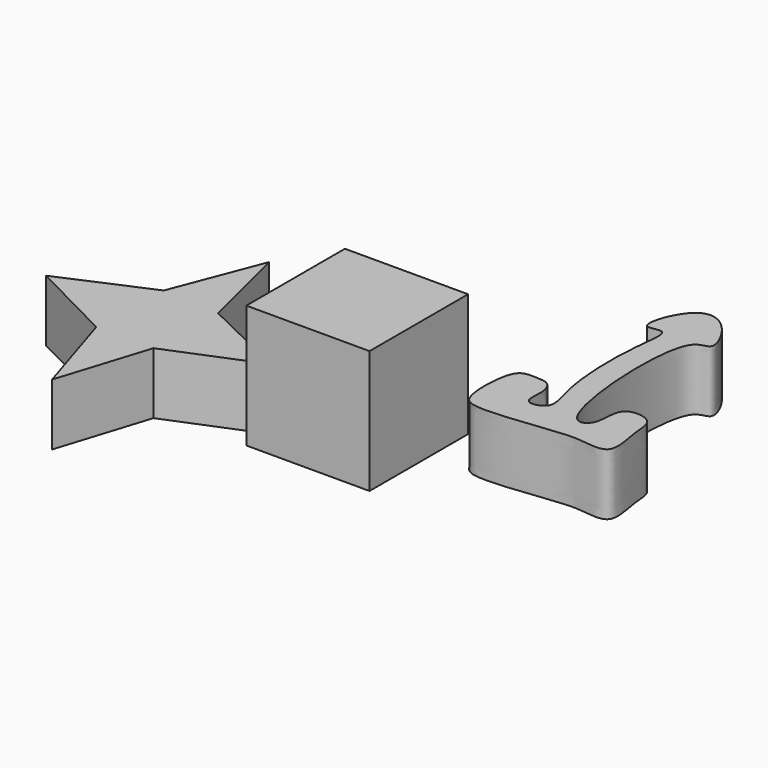
from build123d import *

# Parameters (mm, degrees)
F0_W     = 50
F0_H     = 50
F1_DEPTH = 50
F3_DEPTH = 25
F5_DEPTH = 25


with BuildPart() as f1:
    # F0 (on Top) → F1 (new body)
    with BuildSketch(Plane.XY):
        Rectangle(F0_W, F0_H)
    extrude(amount=F1_DEPTH)


with BuildPart() as f3:
    # F2 (on Top) → F3 (new body)
    with BuildSketch(Plane.XY):
        with BuildLine():
            add(Edge.make_bspline(
                [(62.2854828835, 18.4092987329), (64.2676770664, 20.8252723707), (58.9851490385, 32.2660144268), (57.7487069824, 64.2192451313), (61.9719423526, 84.1065452735), (48.8400756216, 77.04710804), (57.1473864153, 101.476112772), (71.8658035272, 98.8424958809), (81.1055202571, 79.980822739), (64.6975670299, 84.997067788), (69.1993792273, 11.0924260312), (83.53956362, 18.2237201979), (80.2668317064, 33.0994660278), (95.8116933452, 31.8830853941), (94.9162691372, 21.3898294531), (99.8857851878, 4.3791402325), (85.5266029612, 6.6853193807), (77.548395646, 6.9163912191), (44.4318555609, 1.9084673348), (38.4614065355, 7.5723181931), (37.9978360383, 21.3318767233), (40.412023005, 31.819345953), (47.5638230576, 31.2994573806), (52.9766215622, 31.3187387295), (56.1438009209, 25.426041261), (53.6037253652, 15.0168628929), (60.8720999823, 16.6866139128), (62.2854828835, 18.4092987329)],
                knots=[0, 0, 0, 0, 0.0406743062, 0.1092731393, 0.1526423243, 0.1802780766, 0.2276970183, 0.2675790244, 0.3119701777, 0.3419154538, 0.4320320179, 0.4600282553, 0.4996209253, 0.5347453573, 0.5705661296, 0.6132529651, 0.648456594, 0.6852155671, 0.7498798257, 0.7795660993, 0.8215945201, 0.8568766133, 0.8846742474, 0.9103031916, 0.9383786291, 0.9709976099, 1, 1, 1, 1], degree=3))
        make_face()
    extrude(amount=F3_DEPTH)


with BuildPart() as f5:
    # F4 (on Top) → F5 (new body)
    with BuildSketch(Plane.XY):
        Polygon((-117.4122616649, -11.1114243045), (-82.9636492371, -28.7022031901), (-71.389149928, -65.6095929501), (-59.7413856226, -28.7250164081), (-23.9470246449, -14.0653396656), align=None)
        Polygon((-81.9216143463, 4.2689642766), (-117.4122616649, -11.1114243045), (-23.9470246449, -14.0653396656), (-58.7442545284, 2.8253439331), (-68.0396680598, 40.3718176327), align=None)
    extrude(amount=F5_DEPTH)


solid = Compound([f1.part, f3.part, f5.part])
